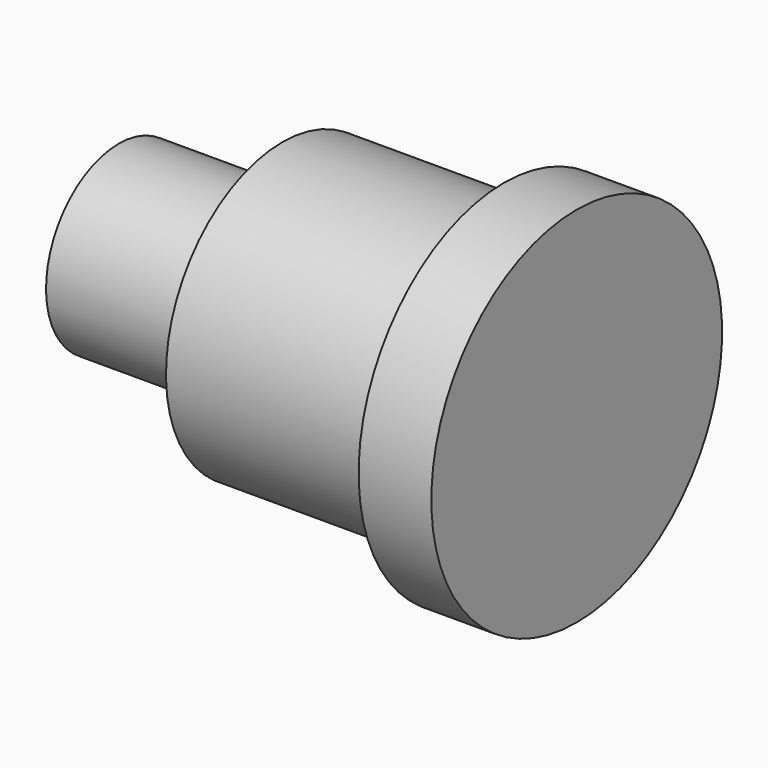
from build123d import *

# Parameters (mm, degrees)
F3_D     = 2
F3_DEPTH = 4
F3_TIP   = 0.600860619


with BuildPart() as f1:
    # F0 (on Front) → F1 (revolve)
    with BuildSketch(Plane.XZ):
        Polygon((-7.5, 2.5), (-7.5, 0), (5.1, 0), (5.1, 5), (3.1, 5), (3.1, 4), (-3, 4), (-3, 2.5), align=None)
    revolve(axis=Axis((-1.2, 0, 0), (-1, 0, 0)))

    # F3
    with Locations(Plane(origin=(-7.5, 0, 0), x_dir=(0, -1, 0), z_dir=(-1, 0, 0))):
        with Locations((0, 0)):
            Hole(F3_D / 2, depth=F3_DEPTH)
            with Locations((0, 0, -(F3_DEPTH + F3_TIP / 2))):  # 118° drill point
                Cone(0, F3_D / 2, F3_TIP, mode=Mode.SUBTRACT)


solid = f1.part
